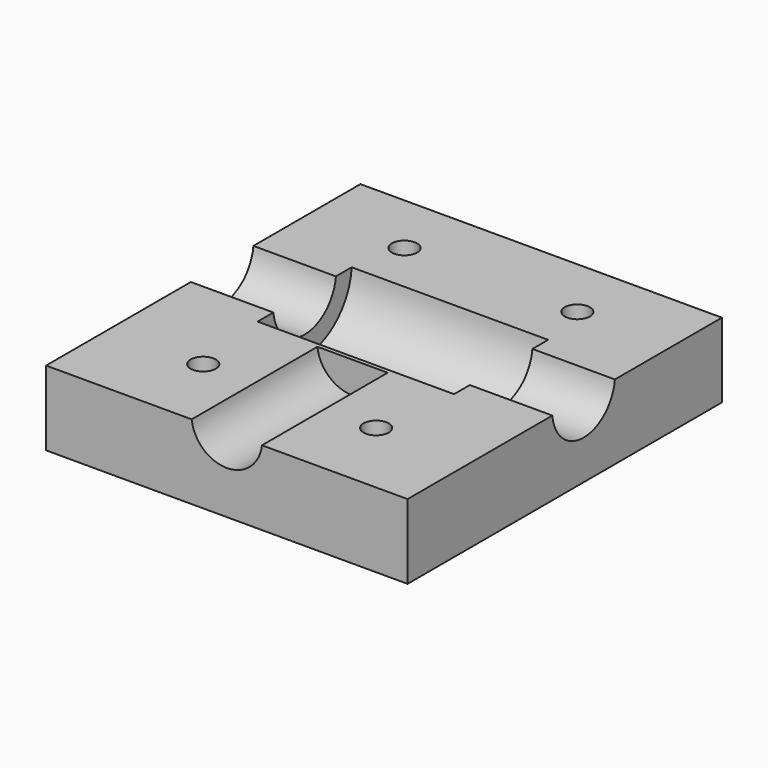
from build123d import *

# Parameters (mm, degrees)
BOX001_W                = 46
BOX001_H                = 50
BOX001_DEPTH            = 1
CYLINDER006_R           = 7.5
CYLINDER006_DEPTH       = 25
CYLINDER006_PITCH_ANGLE = 90
CYLINDER005_R           = 5
CYLINDER005_DEPTH       = 46
CYLINDER005_PITCH_ANGLE = 90
CYLINDER004_R           = 4.5
CYLINDER004_DEPTH       = 20
CYLINDER004_ROLL_ANGLE  = 90
CYLINDER003_R           = 1.6
CYLINDER003_DEPTH       = 10
CYLINDER002_R           = 1.6
CYLINDER002_DEPTH       = 10
CYLINDER001_R           = 1.6
CYLINDER001_DEPTH       = 10
CYLINDER_R              = 1.6
CYLINDER_DEPTH          = 10
BOX_W                   = 46
BOX_H                   = 50
BOX_DEPTH               = 10


with BuildPart() as cubo001:
    # Box001 → Box001 (new body)
    with BuildSketch(Plane.XY.offset(9.5)):
        with Locations((23, 25)):
            Rectangle(BOX001_W, BOX001_H)
    extrude(amount=BOX001_DEPTH)


with BuildPart() as cilindro006:
    # Cylinder006 → Cylinder006 (new body)
    with BuildSketch(Plane.XY):
        Circle(CYLINDER006_R)
    extrude(amount=CYLINDER006_DEPTH)


with BuildPart() as cilindro006_1:
    # Cylinder006 pitch: moved
    add(cilindro006.part.rotate(Axis((0, 0, 0), (0, 1, 0)), CYLINDER006_PITCH_ANGLE))


with BuildPart() as cilindro006_2:
    # Cylinder006 placement: moved
    add(cilindro006_1.part.moved(Location((10.5, 28, 10))))


with BuildPart() as cilindro005:
    # Cylinder005 → Cylinder005 (new body)
    with BuildSketch(Plane.XY):
        Circle(CYLINDER005_R)
    extrude(amount=CYLINDER005_DEPTH)


with BuildPart() as cilindro005_1:
    # Cylinder005 pitch: moved
    add(cilindro005.part.rotate(Axis((0, 0, 0), (0, 1, 0)), CYLINDER005_PITCH_ANGLE))


with BuildPart() as cilindro005_2:
    # Cylinder005 placement: moved
    add(cilindro005_1.part.moved(Location((0, 28, 10))))


with BuildPart() as cilindro004:
    # Cylinder004 → Cylinder004 (new body)
    with BuildSketch(Plane.XY):
        Circle(CYLINDER004_R)
    extrude(amount=CYLINDER004_DEPTH)


with BuildPart() as cilindro004_1:
    # Cylinder004 roll: moved
    add(cilindro004.part.rotate(Axis((0, 0, 0), (1, 0, 0)), CYLINDER004_ROLL_ANGLE))


with BuildPart() as cilindro004_2:
    # Cylinder004 placement: moved
    add(cilindro004_1.part.moved(Location((23, 20, 10))))


with BuildPart() as cilindro003:
    # Cylinder003 → Cylinder003 (new body)
    with BuildSketch(Plane(origin=(34, 42, 0), x_dir=(1, 0, 0), z_dir=(0, 0, 1))):
        Circle(CYLINDER003_R)
    extrude(amount=CYLINDER003_DEPTH)


with BuildPart() as cilindro002:
    # Cylinder002 → Cylinder002 (new body)
    with BuildSketch(Plane(origin=(12, 42, 0), x_dir=(1, 0, 0), z_dir=(0, 0, 1))):
        Circle(CYLINDER002_R)
    extrude(amount=CYLINDER002_DEPTH)


with BuildPart() as cilindro001:
    # Cylinder001 → Cylinder001 (new body)
    with BuildSketch(Plane(origin=(34, 10, 0), x_dir=(1, 0, 0), z_dir=(0, 0, 1))):
        Circle(CYLINDER001_R)
    extrude(amount=CYLINDER001_DEPTH)


with BuildPart() as cilindro:
    # Cylinder → Cylinder (new body)
    with BuildSketch(Plane(origin=(12, 10, 0), x_dir=(1, 0, 0), z_dir=(0, 0, 1))):
        Circle(CYLINDER_R)
    extrude(amount=CYLINDER_DEPTH)


with BuildPart() as cut007:
    # Box → Box (new body)
    with BuildSketch(Plane.XY):
        with Locations((23, 25)):
            Rectangle(BOX_W, BOX_H)
    extrude(amount=BOX_DEPTH)

    # Cut: cut Cilindro
    add(cilindro.part, mode=Mode.SUBTRACT)

    # Cut001: cut Cilindro001
    add(cilindro001.part, mode=Mode.SUBTRACT)

    # Cut002: cut Cilindro002
    add(cilindro002.part, mode=Mode.SUBTRACT)

    # Cut003: cut Cilindro003
    add(cilindro003.part, mode=Mode.SUBTRACT)

    # Cut004: cut Cilindro004
    add(cilindro004_2.part, mode=Mode.SUBTRACT)

    # Cut005: cut Cilindro005
    add(cilindro005_2.part, mode=Mode.SUBTRACT)

    # Cut006: cut Cilindro006
    add(cilindro006_2.part, mode=Mode.SUBTRACT)

    # Cut007: cut Cubo001
    add(cubo001.part, mode=Mode.SUBTRACT)


solid = cut007.part
